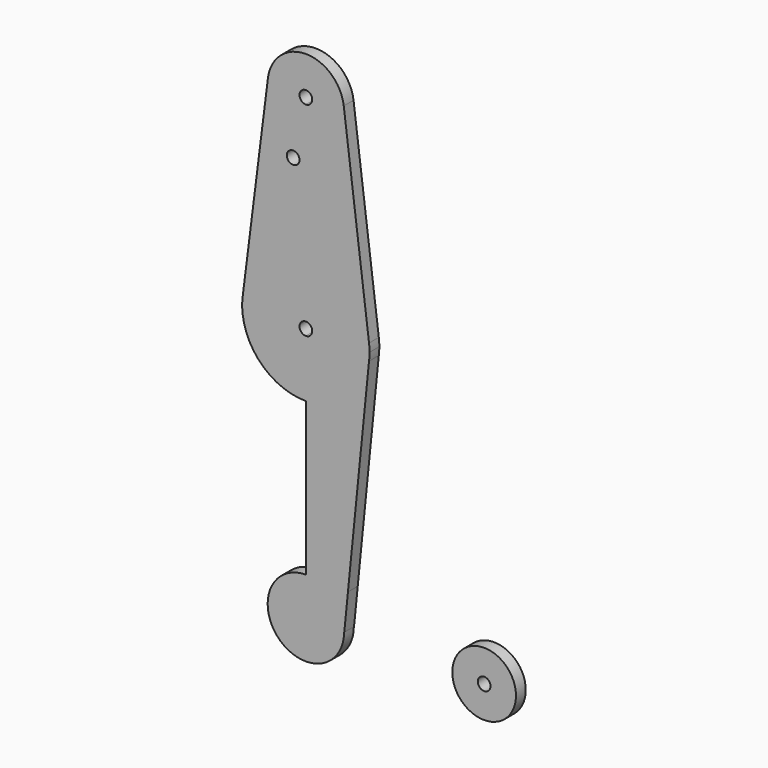
from build123d import *

# Parameters (mm, degrees)
F1_DEPTH = 3.048
F0_R     = 1.5875


with BuildPart() as f1:
    # F0 (on Front) → F1 (new body)
    with BuildSketch(Plane.XZ):
        with BuildLine():
            ThreePointArc((36.5125, 0), (44.45, -7.9375), (52.3875, 0))
            ThreePointArc((52.3875, 0), (44.45, 7.9375), (36.5125, 0))
        make_face()
        with BuildLine():
            ThreePointArc((46.0375, 0), (44.45, -1.5875), (42.8625, 0))
            ThreePointArc((42.8625, 0), (44.45, 1.5875), (46.0375, 0))
        make_face(mode=Mode.SUBTRACT)
    extrude(amount=F1_DEPTH)


with BuildPart() as f1b:
    # F0 (on Front) → F1, piece 2 (new body)
    with BuildSketch(Plane.XZ):
        with BuildLine():
            Line((9.525, 0), (9.5729082215, 0))
            Line((9.5729082215, 0), (10.4919262948, 9.1514752842))
            Line((10.4919262948, 9.1514752842), (0.6773435479, 9.500885786))
            ThreePointArc((0.6773435479, 9.500885786), (6.9705567315, 6.4912990883), (9.525, 0))
        make_face()
        with BuildLine():
            ThreePointArc((0.6773435479, -9.500885786), (6.9705567315, -6.4912990883), (9.525, 0))
            Line((9.525, 0), (0, 0))
            Line((0, 0), (0, 9.525))
            ThreePointArc((0, 9.525), (-9.525, 0), (0, -9.525))
            Line((0, -9.525), (0.6773435479, -9.500885786))
        make_face()
        with BuildLine():
            Line((0, 0), (9.525, 0))
            ThreePointArc((9.525, 0), (6.9705567315, 6.4912990883), (0.6773435479, 9.500885786))
            Line((0.6773435479, 9.500885786), (0, 9.525))
            Line((0, 9.525), (0, 0))
        make_face()
        with BuildLine():
            Line((0.6773435479, 9.500885786), (10.4919262948, 9.1514752842))
            Line((10.4919262948, 9.1514752842), (15.7504882737, 61.515625))
            ThreePointArc((15.7504882737, 61.515625), (10.5003255158, 51.59375), (0, 47.625))
            Line((0, 47.625), (0, 9.525))
            ThreePointArc((0, 9.525), (0.3388863295, 9.5189695375), (0.6773435479, 9.500885786))
        make_face()
        with BuildLine():
            Line((0, 9.525), (0.6773435479, 9.500885786))
            ThreePointArc((0.6773435479, 9.500885786), (0.3388863295, 9.5189695375), (0, 9.525))
        make_face()
        with BuildLine():
            ThreePointArc((0, -9.525), (0.3388863295, -9.5189695375), (0.6773435479, -9.500885786))
            Line((0.6773435479, -9.500885786), (0, -9.525))
        make_face()
        with BuildLine():
            ThreePointArc((0, 47.625), (10.5003255158, 51.59375), (15.7504882737, 61.515625))
            ThreePointArc((15.7504882737, 61.515625), (15.8438414904, 62.5058612634), (15.875, 63.5))
            ThreePointArc((15.875, 63.5), (15.8438414904, 64.4941387366), (15.7504882737, 65.484375))
            ThreePointArc((15.7504882737, 65.484375), (10.5003255158, 75.40625), (0, 79.375))
            Line((0, 79.375), (0, 65.0875))
            ThreePointArc((0, 65.0875), (1.1225320151, 64.6225320151), (1.5875, 63.5))
            ThreePointArc((1.5875, 63.5), (1.1225320151, 62.3774679849), (0, 61.9125))
            Line((0, 61.9125), (0, 47.625))
        make_face()
        with BuildLine():
            ThreePointArc((-15.7504882737, 61.515625), (-10.5003255158, 51.59375), (0, 47.625))
            Line((0, 47.625), (0, 61.9125))
            ThreePointArc((0, 61.9125), (-1.5875, 63.5), (0, 65.0875))
            Line((0, 65.0875), (0, 79.375))
            ThreePointArc((0, 79.375), (-10.5003255158, 75.40625), (-15.7504882737, 65.484375))
            ThreePointArc((-15.7504882737, 65.484375), (-15.875, 63.5), (-15.7504882737, 61.515625))
        make_face()
        with BuildLine():
            ThreePointArc((0, 79.375), (10.5003255158, 75.40625), (15.7504882737, 65.484375))
            Line((15.7504882737, 65.484375), (9.4502929642, 115.490625))
            ThreePointArc((9.4502929642, 115.490625), (9.5063048942, 114.896483242), (9.525, 114.3))
            ThreePointArc((9.525, 114.3), (6.7351920908, 107.5648079092), (0, 104.775))
            Line((0, 104.775), (0, 79.375))
        make_face()
        with BuildLine():
            ThreePointArc((-15.7504882737, 65.484375), (-10.5003255158, 75.40625), (0, 79.375))
            Line((0, 79.375), (0, 104.775))
            ThreePointArc((0, 104.775), (-7.14375, 107.9998046905), (-9.4502929642, 115.490625))
            Line((-9.4502929642, 115.490625), (-15.7504882737, 65.484375))
        make_face()
        with Locations((-3.175, 100.0252)):
            Circle(F0_R, mode=Mode.SUBTRACT)
        with BuildLine():
            ThreePointArc((9.525, 114.3), (9.5063048942, 114.896483242), (9.4502929642, 115.490625))
            ThreePointArc((9.4502929642, 115.490625), (0, 123.825), (-9.4502929642, 115.490625))
            ThreePointArc((-9.4502929642, 115.490625), (-7.14375, 107.9998046905), (0, 104.775))
            ThreePointArc((0, 104.775), (6.7351920908, 107.5648079092), (9.525, 114.3))
        make_face()
        with BuildLine():
            ThreePointArc((1.5875, 114.3), (1.1225320151, 113.1774679849), (0, 112.7125))
            ThreePointArc((0, 112.7125), (-1.1225320151, 115.4225320151), (1.5875, 114.3))
        make_face(mode=Mode.SUBTRACT)
    extrude(amount=F1_DEPTH)


solid = Compound([f1.part, f1b.part])
